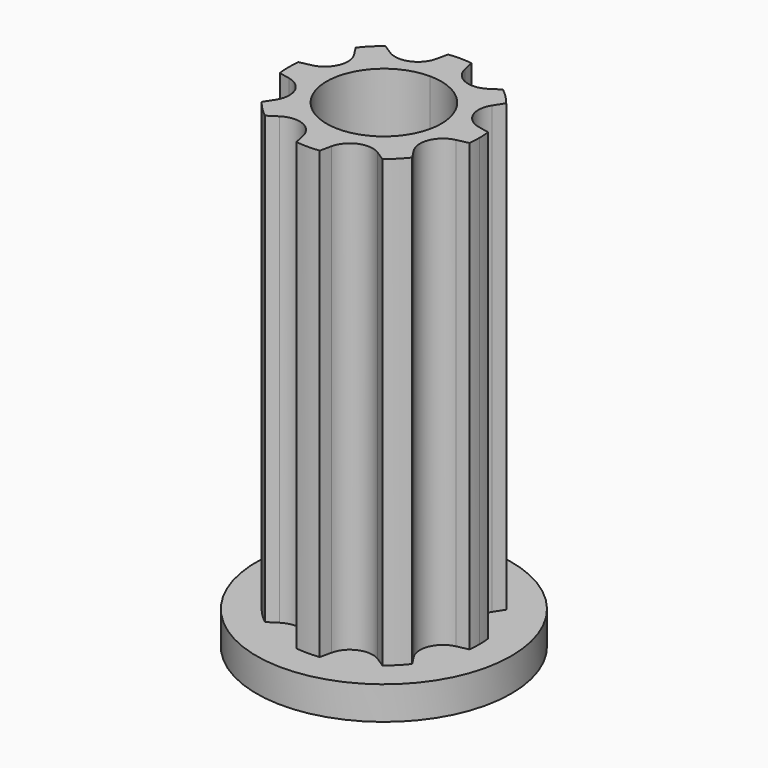
from build123d import *

# Parameters (mm, degrees)
F0_R     = 12.7
F0_R_2   = 5.715
F1_DEPTH = 3.302
F3_DEPTH = 44.45


with BuildPart() as f1:
    # F0 (on Top) → F1 (new body)
    with BuildSketch(Plane.XY):
        Circle(F0_R)
        Circle(F0_R_2, mode=Mode.SUBTRACT)
    extrude(amount=F1_DEPTH)

    # F2 (on face) → F3 (join)
    with BuildSketch(Plane.XY.offset(3.302)):
        with BuildLine():
            ThreePointArc((9.453067, -1.1684), (9.507, -0.585306), (9.525, 0))
            ThreePointArc((9.525, 0), (9.507122, 0.583309), (9.453557, 1.164427))
            Line((9.453557, 1.164427), (8.319861, 1.408357))
            ThreePointArc((8.319861, 1.408357), (6.688546, 2.76884), (6.880942, 4.88428))
            Line((6.880942, 4.88428), (7.510511, 5.858144))
            ThreePointArc((7.510511, 5.858144), (6.736607, 6.733777), (5.861299, 7.508049))
            Line((5.861299, 7.508049), (4.887171, 6.878889))
            ThreePointArc((4.887171, 6.878889), (2.771651, 6.687382), (1.411853, 8.319268))
            Line((1.411853, 8.319268), (1.1684, 9.453067))
            ThreePointArc((1.1684, 9.453067), (0.585306, 9.507), (0, 9.525))
            ThreePointArc((0, 9.525), (-0.583309, 9.507122), (-1.164427, 9.453557))
            Line((-1.164427, 9.453557), (-1.408357, 8.319861))
            ThreePointArc((-1.408357, 8.319861), (-2.76884, 6.688546), (-4.88428, 6.880942))
            Line((-4.88428, 6.880942), (-5.858144, 7.510511))
            ThreePointArc((-5.858144, 7.510511), (-6.733777, 6.736607), (-7.508049, 5.861299))
            Line((-7.508049, 5.861299), (-6.878889, 4.887171))
            ThreePointArc((-6.878889, 4.887171), (-6.606517, 4.293436), (-6.513186, 3.646909))
            ThreePointArc((-6.513186, 3.646909), (-7.021141, 2.210124), (-8.319268, 1.411853))
            Line((-8.319268, 1.411853), (-9.453067, 1.1684))
            ThreePointArc((-9.453067, 1.1684), (-9.525, 0.002001), (-9.453557, -1.164427))
            Line((-9.453557, -1.164427), (-8.319861, -1.408357))
            ThreePointArc((-8.319861, -1.408357), (-7.022371, -2.206799), (-6.514718, -3.643211))
            ThreePointArc((-6.514718, -3.643211), (-6.608185, -4.290199), (-6.880942, -4.88428))
            Line((-6.880942, -4.88428), (-7.510511, -5.858144))
            ThreePointArc((-7.510511, -5.858144), (-6.736607, -6.733777), (-5.861299, -7.508049))
            Line((-5.861299, -7.508049), (-4.887171, -6.878889))
            ThreePointArc((-4.887171, -6.878889), (-2.771651, -6.687382), (-1.411853, -8.319268))
            Line((-1.411853, -8.319268), (-1.1684, -9.453067))
            ThreePointArc((-1.1684, -9.453067), (-0.002001, -9.525), (1.164427, -9.453557))
            Line((1.164427, -9.453557), (1.408357, -8.319861))
            ThreePointArc((1.408357, -8.319861), (2.76884, -6.688546), (4.88428, -6.880942))
            Line((4.88428, -6.880942), (5.858144, -7.510511))
            ThreePointArc((5.858144, -7.510511), (6.733777, -6.736607), (7.508049, -5.861299))
            Line((7.508049, -5.861299), (6.878889, -4.887171))
            ThreePointArc((6.878889, -4.887171), (6.687382, -2.771651), (8.319268, -1.411853))
            Line((8.319268, -1.411853), (9.453067, -1.1684))
        make_face()
        with BuildLine():
            ThreePointArc((5.715, 0), (-4.041115, -4.041115), (0, 5.715))
            ThreePointArc((0, 5.715), (4.041115, 4.041115), (5.715, 0))
        make_face(mode=Mode.SUBTRACT)
    extrude(amount=F3_DEPTH)


solid = f1.part
